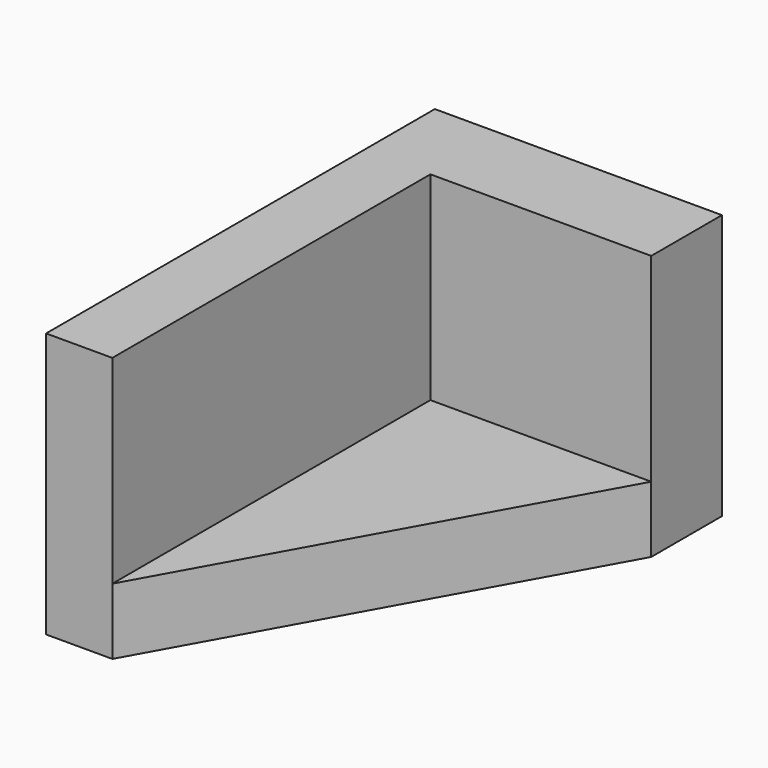
from build123d import *

# Parameters (mm, degrees)
F0_W     = 13
F0_H     = 22
F1_DEPTH = 12
F3_DEPTH = 12.001
F5_DEPTH = 9


with BuildPart() as f1:
    # F0 (on Top) → F1 (new body)
    with BuildSketch(Plane.XY):
        with Locations((6.5, -11)):
            Rectangle(F0_W, F0_H)
    extrude(amount=F1_DEPTH)

    # F2 (on face) → F3 (cut, through all)
    with BuildSketch(Plane.XY.offset(12)):
        Polygon((13, -22), (13, -4), (3, -22), align=None)
    extrude(amount=-F3_DEPTH, mode=Mode.SUBTRACT)

    # F4 (on face) → F5 (cut)
    with BuildSketch(Plane.XY.offset(12)):
        Polygon((3, -4), (3, -22), (13, -4), align=None)
    extrude(amount=-F5_DEPTH, mode=Mode.SUBTRACT)


solid = f1.part
